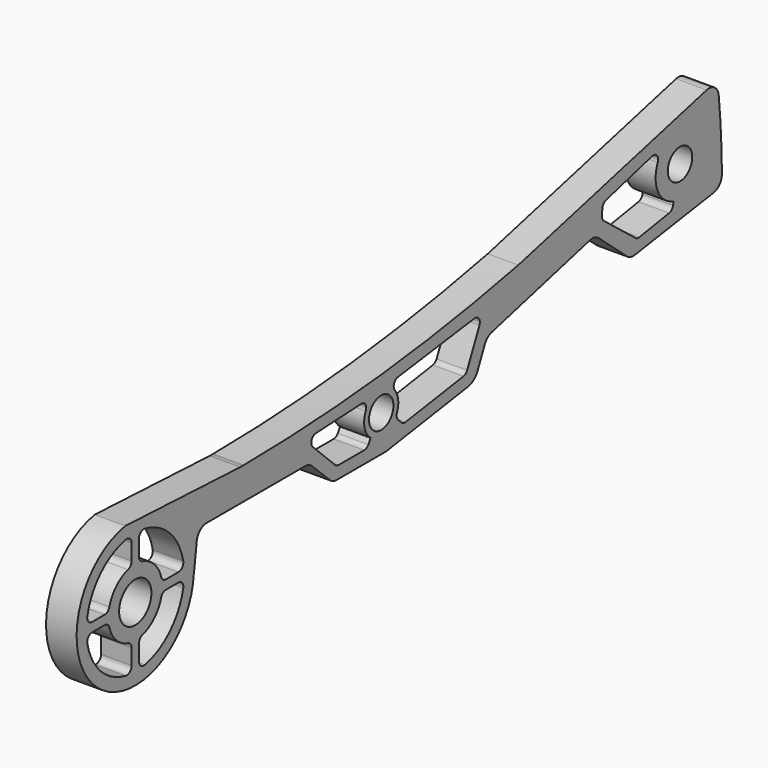
from build123d import *

# Parameters (mm, degrees)
F0_R     = 3.3
F0_R_2   = 2.5
F1_DEPTH = 5


with BuildPart() as f1:
    # F0 (on Right) → F1 (new body)
    with BuildSketch(Plane.YZ):
        with BuildLine():
            ThreePointArc((21.963381, 10.731182), (21.963038, 10.725257), (21.962693, 10.719332))
            ThreePointArc((21.962693, 10.719332), (22.073674, 10.724516), (22.184469, 10.732781))
            ThreePointArc((22.184469, 10.732781), (22.073925, 10.73196), (21.963381, 10.731182))
        make_face()
        with BuildLine():
            ThreePointArc((21.462557, 10.734239), (21.646861, 10.721449), (21.831558, 10.717182))
            Line((21.831558, 10.717182), (21.579958, 10.728812))
            Line((21.579958, 10.728812), (21.462557, 10.734239))
        make_face()
        with BuildLine():
            ThreePointArc((21.831558, 10.717182), (21.897134, 10.71772), (21.962693, 10.719332))
            ThreePointArc((21.962693, 10.719332), (21.963038, 10.725257), (21.963381, 10.731182))
            ThreePointArc((21.963381, 10.731182), (21.77167, 10.729933), (21.579958, 10.728812))
            Line((21.579958, 10.728812), (21.831558, 10.717182))
        make_face()
        with BuildLine():
            ThreePointArc((22.184469, 10.732781), (22.073674, 10.724516), (21.962693, 10.719332))
            ThreePointArc((21.962693, 10.719332), (21.897134, 10.71772), (21.831558, 10.717182))
            ThreePointArc((21.831558, 10.717182), (21.646861, 10.721449), (21.462557, 10.734239))
            Line((21.462557, 10.734239), (-2.061471, 11.821605))
            ThreePointArc((-2.061471, 11.821605), (-7.98857, -8.954482), (11.979296, -0.704597))
            ThreePointArc((11.979296, -0.704597), (12.007482, -0.482238), (12.065266, -0.265676))
            Line((12.065266, -0.265676), (12.582355, 3.74023))
            ThreePointArc((12.582355, 3.74023), (13.245307, 4.986202), (14.565898, 5.484191))
            Line((14.565898, 5.484191), (34.746018, 5.484191))
            ThreePointArc((34.746018, 5.484191), (35.491172, 5.340193), (36.129026, 4.928936))
            Line((36.129026, 4.928936), (39.796153, 1.418513))
            ThreePointArc((39.796153, 1.418513), (40.434006, 1.007255), (41.179161, 0.863258))
            Line((41.179161, 0.863258), (51.156007, 0.863258))
            ThreePointArc((51.156007, 0.863258), (51.304636, 0.868788), (51.452444, 0.885349))
            Line((51.452444, 0.885349), (68.043756, 3.371954))
            ThreePointArc((68.043756, 3.371954), (69.216393, 3.862727), (70.01494, 4.851797))
            Line((70.01494, 4.851797), (71.526809, 8.134342))
            ThreePointArc((71.526809, 8.134342), (72.064516, 8.835349), (72.851775, 9.2363))
            Line((72.851775, 9.2363), (93.001659, 14.346079))
            ThreePointArc((93.001659, 14.346079), (93.95316, 14.353851), (94.800564, 13.921045))
            Line((94.800564, 13.921045), (100.556748, 8.949467))
            ThreePointArc((100.556748, 8.949467), (101.307844, 8.541964), (102.160474, 8.485161))
            Line((102.160474, 8.485161), (118.293149, 10.903028))
            ThreePointArc((118.293149, 10.903028), (119.516973, 11.581397), (119.996656, 12.895869))
            ThreePointArc((119.996656, 12.895869), (119.811332, 18.726411), (119.342875, 24.541058))
            ThreePointArc((119.342875, 24.541058), (118.50203, 25.969609), (116.872434, 26.273241))
            Line((116.872434, 26.273241), (78.344445, 16.718787))
            ThreePointArc((78.344445, 16.718787), (50.412085, 12.340754), (22.184469, 10.732781))
        make_face()
        with BuildLine():
            ThreePointArc((-9.809251, -1.943858), (-9.601109, -1.114802), (-8.828326, -0.749472))
            Line((-8.828326, -0.749472), (-6.260139, -0.749472))
            ThreePointArc((-6.260139, -0.749472), (-5.655635, -0.95287), (-5.297041, -1.480323))
            ThreePointArc((-5.297041, -1.480323), (-3.88922, -3.888954), (-1.480686, -5.29694))
            ThreePointArc((-1.480686, -5.29694), (-0.95327, -5.655553), (-0.749901, -6.260046))
            Line((-0.749901, -6.260046), (-0.749969, -8.828254))
            ThreePointArc((-0.749969, -8.828254), (-1.11533, -9.601037), (-1.94441, -9.809142))
            ThreePointArc((-1.94441, -9.809142), (-7.071267, -7.070869), (-9.809251, -1.943858))
        make_face(mode=Mode.SUBTRACT)
        with BuildLine():
            ThreePointArc((9.809251, -1.943858), (7.071068, -7.071068), (1.943858, -9.809251))
            ThreePointArc((1.943858, -9.809251), (1.114802, -9.601109), (0.749472, -8.828326))
            Line((0.749472, -8.828326), (0.749472, -6.260139))
            ThreePointArc((0.749472, -6.260139), (0.95287, -5.655635), (1.480323, -5.297041))
            ThreePointArc((1.480323, -5.297041), (3.889087, -3.889087), (5.297041, -1.480323))
            ThreePointArc((5.297041, -1.480323), (5.655635, -0.95287), (6.260139, -0.749472))
            Line((6.260139, -0.749472), (8.828326, -0.749472))
            ThreePointArc((8.828326, -0.749472), (9.601109, -1.114802), (9.809251, -1.943858))
        make_face(mode=Mode.SUBTRACT)
        Circle(F0_R, mode=Mode.SUBTRACT)
        with BuildLine():
            Line((-6.260139, 0.749472), (-8.828326, 0.749472))
            ThreePointArc((-8.828326, 0.749472), (-9.601109, 1.114802), (-9.809251, 1.943858))
            ThreePointArc((-9.809251, 1.943858), (-7.07108, 7.071056), (-1.943892, 9.809245))
            ThreePointArc((-1.943892, 9.809245), (-1.114823, 9.601096), (-0.749503, 8.828294))
            Line((-0.749503, 8.828294), (-0.749571, 6.260086))
            ThreePointArc((-0.749571, 6.260086), (-0.952972, 5.655604), (-1.480406, 5.297018))
            ThreePointArc((-1.480406, 5.297018), (-3.889118, 3.889057), (-5.297041, 1.480323))
            ThreePointArc((-5.297041, 1.480323), (-5.655635, 0.95287), (-6.260139, 0.749472))
        make_face(mode=Mode.SUBTRACT)
        with BuildLine():
            Line((0.749472, 6.260139), (0.749472, 8.828326))
            ThreePointArc((0.749472, 8.828326), (1.114802, 9.601109), (1.943858, 9.809251))
            ThreePointArc((1.943858, 9.809251), (7.071068, 7.071068), (9.809251, 1.943858))
            ThreePointArc((9.809251, 1.943858), (9.601109, 1.114802), (8.828326, 0.749472))
            Line((8.828326, 0.749472), (6.260139, 0.749472))
            ThreePointArc((6.260139, 0.749472), (5.655635, 0.95287), (5.297041, 1.480323))
            ThreePointArc((5.297041, 1.480323), (3.889087, 3.889087), (1.480323, 5.297041))
            ThreePointArc((1.480323, 5.297041), (0.95287, 5.655635), (0.749472, 6.260139))
        make_face(mode=Mode.SUBTRACT)
        with BuildLine():
            ThreePointArc((46.19369, 9.799431), (47.077203, 9.35514), (47.146779, 8.368656))
            ThreePointArc((47.146779, 8.368656), (46.896258, 6.054576), (48.152498, 4.095088))
            Line((48.152498, 4.095088), (47.670785, 3.330302))
            ThreePointArc((47.670785, 3.330302), (47.307883, 2.98777), (46.824642, 2.863258))
            Line((46.824642, 2.863258), (41.585667, 2.863258))
            ThreePointArc((41.585667, 2.863258), (41.209086, 2.936874), (40.88795, 3.146884))
            Line((40.88795, 3.146884), (36.305408, 7.610078))
            ThreePointArc((36.305408, 7.610078), (36.069285, 8.684144), (36.96252, 9.325627))
            Line((36.96252, 9.325627), (46.19369, 9.799431))
        make_face(mode=Mode.SUBTRACT)
        with Locations((50.303187, 6.856344)):
            Circle(F0_R_2, mode=Mode.SUBTRACT)
        with BuildLine():
            Line((67.125234, 5.256629), (55.291258, 3.483024))
            ThreePointArc((55.291258, 3.483024), (54.838264, 3.519554), (54.448218, 3.752796))
            Line((54.448218, 3.752796), (53.764933, 4.412935))
            ThreePointArc((53.764933, 4.412935), (53.480633, 4.92884), (53.536072, 5.515279))
            ThreePointArc((53.536072, 5.515279), (53.772295, 7.320339), (53.070006, 8.999872))
            ThreePointArc((53.070006, 8.999872), (52.93551, 9.992236), (53.72869, 10.60358))
            Line((53.72869, 10.60358), (69.352887, 12.681545))
            ThreePointArc((69.352887, 12.681545), (70.289379, 12.284015), (70.393014, 11.271934))
            Line((70.393014, 11.271934), (67.885307, 5.827244))
            ThreePointArc((67.885307, 5.827244), (67.577394, 5.445867), (67.125234, 5.256629))
        make_face(mode=Mode.SUBTRACT)
        with BuildLine():
            ThreePointArc((105.708219, 21.280173), (106.727909, 20.958857), (106.874517, 19.89984))
            ThreePointArc((106.874517, 19.89984), (106.863277, 15.788601), (109.9374, 13.058734))
            ThreePointArc((109.9374, 13.058734), (110.062622, 12.958027), (110.08565, 12.798992))
            Line((110.08565, 12.798992), (109.998683, 12.429304))
            ThreePointArc((109.998683, 12.429304), (109.708097, 11.927734), (109.188068, 11.671643))
            Line((109.188068, 11.671643), (103.109307, 10.668558))
            ThreePointArc((103.109307, 10.668558), (102.696959, 10.686849), (102.327124, 10.870116))
            Line((102.327124, 10.870116), (95.85372, 15.977033))
            ThreePointArc((95.85372, 15.977033), (95.561116, 16.351886), (95.474738, 16.819509))
            Line((95.474738, 16.819509), (95.535401, 17.875044))
            ThreePointArc((95.535401, 17.875044), (95.759171, 18.450139), (96.277906, 18.784384))
            Line((96.277906, 18.784384), (105.708219, 21.280173))
        make_face(mode=Mode.SUBTRACT)
        with Locations((111.426774, 17.831758)):
            Circle(F0_R_2, mode=Mode.SUBTRACT)
    extrude(amount=F1_DEPTH)


solid = f1.part
